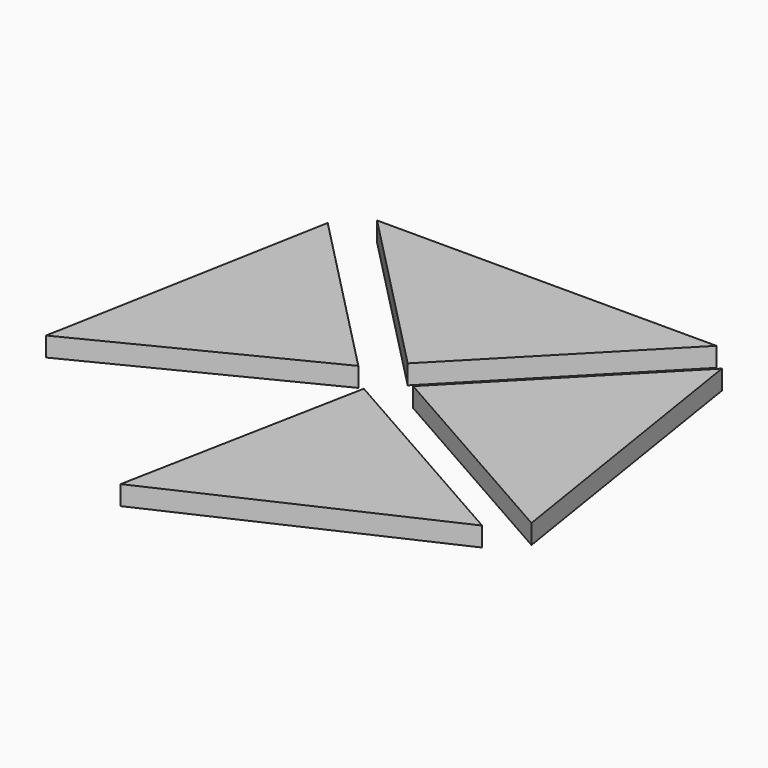
from build123d import *

# Parameters (mm, degrees)
F2_DEPTH = 6.35


with BuildPart() as f2:
    # F1 (on Top) → F2 (new body)
    with BuildSketch(Plane.XY):
        Polygon((-72.869771, -36.745357), (0, 0), (-55.5752, 56.921394), align=None)
        Polygon((8.980256, 8.980256), (64.555456, 65.90165), (-46.594944, 65.90165), align=None)
        Polygon((17.960512, 0), (88.930693, -40.29216), (73.535712, 56.921394), align=None)
        Polygon((-6.575822, -89.094133), (79.950437, -49.272416), (8.980256, -8.980256), align=None)
    extrude(amount=F2_DEPTH)


solid = f2.part
